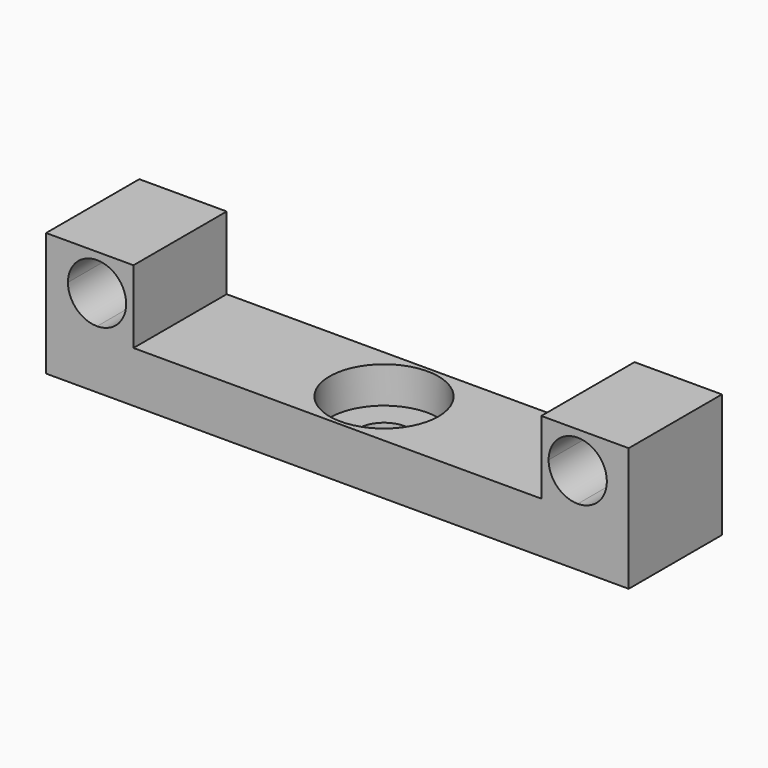
from build123d import *

# Parameters (mm, degrees)
F1_DEPTH = 8
F3_DEPTH = 25
F4_R     = 3.733765
F5_DEPTH = 2.5


with BuildPart() as f1:
    # F0 (on Front) → F1 (new body)
    with BuildSketch(Plane.XZ):
        Polygon((16.5, 1.75), (14, 1.75), (-14, 1.75), (-16.5, 1.75), (-16.5, 0), (0, 0), (16.5, 0), align=None)
        with BuildLine():
            Line((14, 4.25), (14, 1.75))
            Line((14, 1.75), (16.5, 1.75))
            Line((16.5, 1.75), (16.5, 2.25))
            ThreePointArc((16.5, 2.25), (15.085786, 2.835786), (14.5, 4.25))
            Line((14.5, 4.25), (14, 4.25))
        make_face()
        with BuildLine():
            Line((-16.5, 1.75), (-14, 1.75))
            Line((-14, 1.75), (-14, 4.25))
            Line((-14, 4.25), (-14.5, 4.25))
            ThreePointArc((-14.5, 4.25), (-15.085786, 2.835786), (-16.5, 2.25))
            Line((-16.5, 2.25), (-16.5, 1.75))
        make_face()
        with BuildLine():
            Line((16.5, 2.25), (16.5, 1.75))
            Line((16.5, 1.75), (20, 1.75))
            Line((20, 1.75), (20, 4.25))
            Line((20, 4.25), (18.5, 4.25))
            ThreePointArc((18.5, 4.25), (17.914214, 2.835786), (16.5, 2.25))
        make_face()
        Polygon((20, 1.75), (16.5, 1.75), (16.5, 0), (0, 0), (-16.5, 0), (-16.5, 1.75), (-20, 1.75), (-20, -1.75), (20, -1.75), align=None)
        with BuildLine():
            Line((14, 6.75), (14, 4.25))
            Line((14, 4.25), (14.5, 4.25))
            ThreePointArc((14.5, 4.25), (16.5, 6.25), (18.5, 4.25))
            Line((18.5, 4.25), (20, 4.25))
            Line((20, 4.25), (20, 6.75))
            Line((20, 6.75), (14, 6.75))
        make_face()
        with BuildLine():
            Line((-20, 1.75), (-16.5, 1.75))
            Line((-16.5, 1.75), (-16.5, 2.25))
            ThreePointArc((-16.5, 2.25), (-17.914214, 2.835786), (-18.5, 4.25))
            Line((-18.5, 4.25), (-20, 4.25))
            Line((-20, 4.25), (-20, 1.75))
        make_face()
        with BuildLine():
            Line((-14.5, 4.25), (-14, 4.25))
            Line((-14, 4.25), (-14, 6.75))
            Line((-14, 6.75), (-20, 6.75))
            Line((-20, 6.75), (-20, 4.25))
            Line((-20, 4.25), (-18.5, 4.25))
            ThreePointArc((-18.5, 4.25), (-16.5, 6.25), (-14.5, 4.25))
        make_face()
    extrude(amount=F1_DEPTH)

    # F2 (on face) → F3 (cut)
    with BuildSketch(Plane.XY.offset(1.75)):
        with BuildLine():
            ThreePointArc((1.75, -4), (1.237437, -2.762563), (0, -2.25))
            ThreePointArc((0, -2.25), (-1.237437, -5.237437), (1.75, -4))
        make_face()
    extrude(amount=-F3_DEPTH, mode=Mode.SUBTRACT)

    # F4 (on face) → F5 (cut)
    with BuildSketch(Plane.XY.offset(1.75)):
        with Locations((0, -4)):
            Circle(F4_R)
    extrude(amount=-F5_DEPTH, mode=Mode.SUBTRACT)


solid = f1.part
